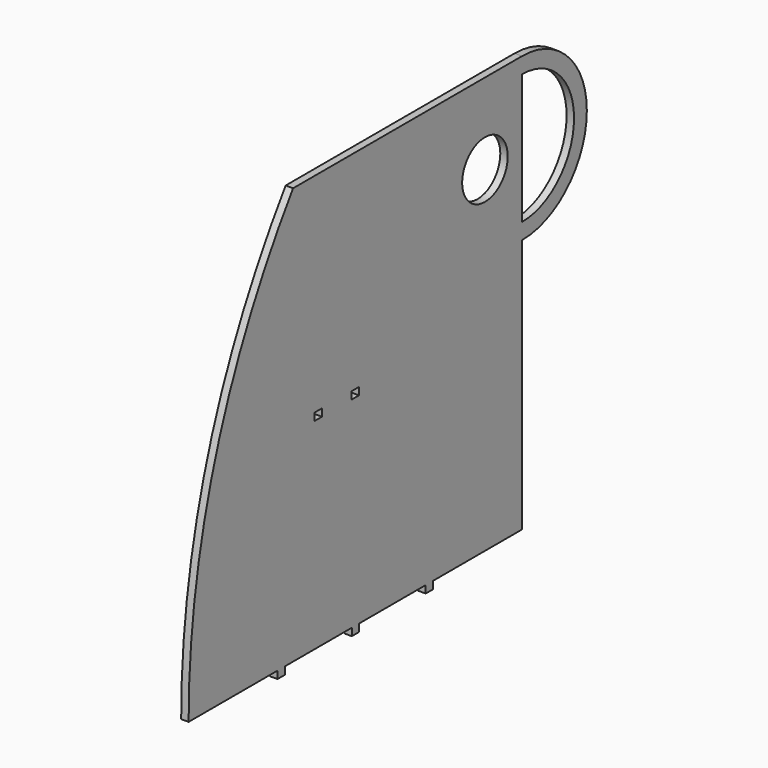
from build123d import *

# Parameters (mm, degrees)
F0_R     = 15.621
F0_W     = 5.08
F0_H     = 4.0894
F0_W_2   = 4.826
F1_DEPTH = 4.0894
F2_W     = 5.08
F2_H     = 4.0894
F3_DEPTH = 25.4


with BuildPart() as f1:
    # F0 (on Right) → F1 (new body)
    with BuildSketch(Plane.YZ):
        with BuildLine():
            Line((53.34, -139.7), (114.3, -139.7))
            Line((114.3, -139.7), (114.3, 0))
            Line((114.3, 0), (114.3, 8.769464))
            Line((114.3, 8.769464), (114.3, 80.130536))
            Line((114.3, 80.130536), (114.3, 88.9))
            Line((114.3, 88.9), (-42.671357, 88.9))
            ThreePointArc((-42.671357, 88.9), (-96.063758, -19.892153), (-114.3, -139.7))
            Line((-114.3, -139.7), (-53.34, -139.7))
            Line((-53.34, -139.7), (-48.26, -139.7))
            Line((-48.26, -139.7), (-2.413, -139.7))
            Line((-2.413, -139.7), (2.413, -139.7))
            Line((2.413, -139.7), (48.26, -139.7))
            Line((48.26, -139.7), (53.34, -139.7))
        make_face()
        with Locations((88.9, 44.45)):
            Circle(F0_R, mode=Mode.SUBTRACT)
        with Locations((50.8, -141.7447)):
            Rectangle(F0_W, F0_H)
        with BuildLine():
            Line((114.3, 8.769464), (114.3, 0))
            ThreePointArc((114.3, 0), (158.75, 44.45), (114.3, 88.9))
            Line((114.3, 88.9), (114.3, 80.130536))
            ThreePointArc((114.3, 80.130536), (149.980536, 44.45), (114.3, 8.769464))
        make_face()
        with Locations((0, -141.7447)):
            Rectangle(F0_W_2, F0_H)
        with Locations((-50.8, -141.7447)):
            Rectangle(F0_W, F0_H)
    extrude(amount=F1_DEPTH)

    # F2 (on face) → F3 (cut)
    with BuildSketch(Plane.YZ.offset(4.0894)):
        with Locations((0, -27.4447)):
            Rectangle(F2_W, F2_H)
        with Locations((-25.4, -27.4447)):
            Rectangle(F2_W, F2_H)
    extrude(amount=-F3_DEPTH, mode=Mode.SUBTRACT)


solid = f1.part
